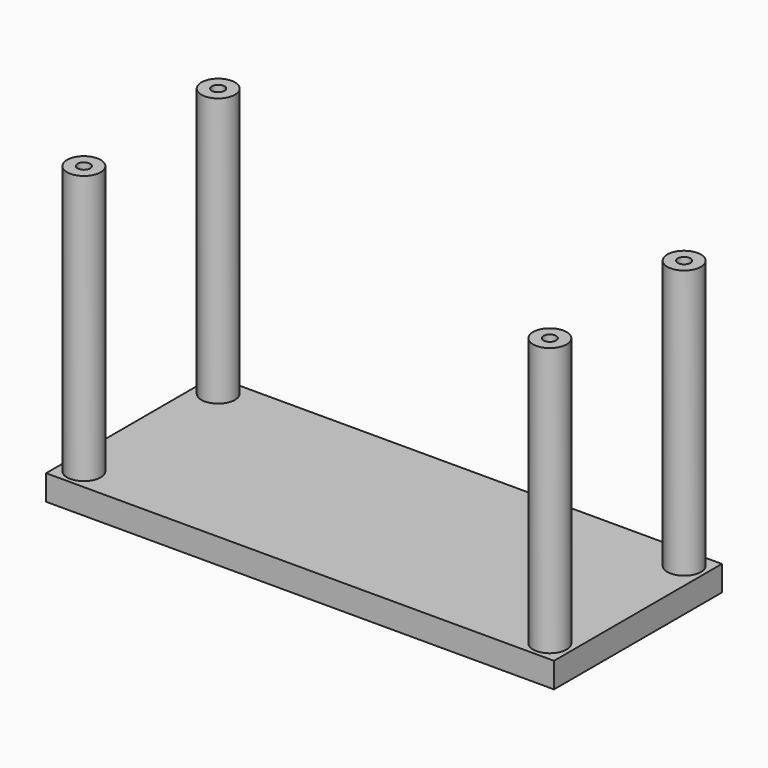
from build123d import *

# Parameters (mm, degrees)
F0_W     = 121
F0_H     = 50
F0_R     = 4
F0_W_2   = 101
F0_H_2   = 30
F1_DEPTH = 6
F0_R_2   = 1.5
F2_DEPTH = 70


with BuildPart() as f1:
    # F0 (on Top) → F1 (new body)
    with BuildSketch(Plane.XY):
        Rectangle(F0_W, F0_H)
        with Locations((-55.5, -20)):
            Circle(F0_R, mode=Mode.SUBTRACT)
        with Locations((55.5, -20)):
            Circle(F0_R, mode=Mode.SUBTRACT)
        with Locations((-55.5, 20)):
            Circle(F0_R, mode=Mode.SUBTRACT)
        Rectangle(F0_W_2, F0_H_2, mode=Mode.SUBTRACT)
        with Locations((55.5, 20)):
            Circle(F0_R, mode=Mode.SUBTRACT)
        Rectangle(F0_W_2, F0_H_2)
    extrude(amount=F1_DEPTH)

    # F0 (on Top) → F2 (join)
    with BuildSketch(Plane.XY):
        with Locations((-55.5, 20)):
            Circle(F0_R)
        with Locations((-55.5, 20)):
            Circle(F0_R_2, mode=Mode.SUBTRACT)
        with Locations((55.5, 20)):
            Circle(F0_R)
        with Locations((55.5, 20)):
            Circle(F0_R_2, mode=Mode.SUBTRACT)
        with Locations((55.5, -20)):
            Circle(F0_R)
        with Locations((55.5, -20)):
            Circle(F0_R_2, mode=Mode.SUBTRACT)
        with Locations((-55.5, -20)):
            Circle(F0_R)
        with Locations((-55.5, -20)):
            Circle(F0_R_2, mode=Mode.SUBTRACT)
    extrude(amount=F2_DEPTH)


solid = f1.part
